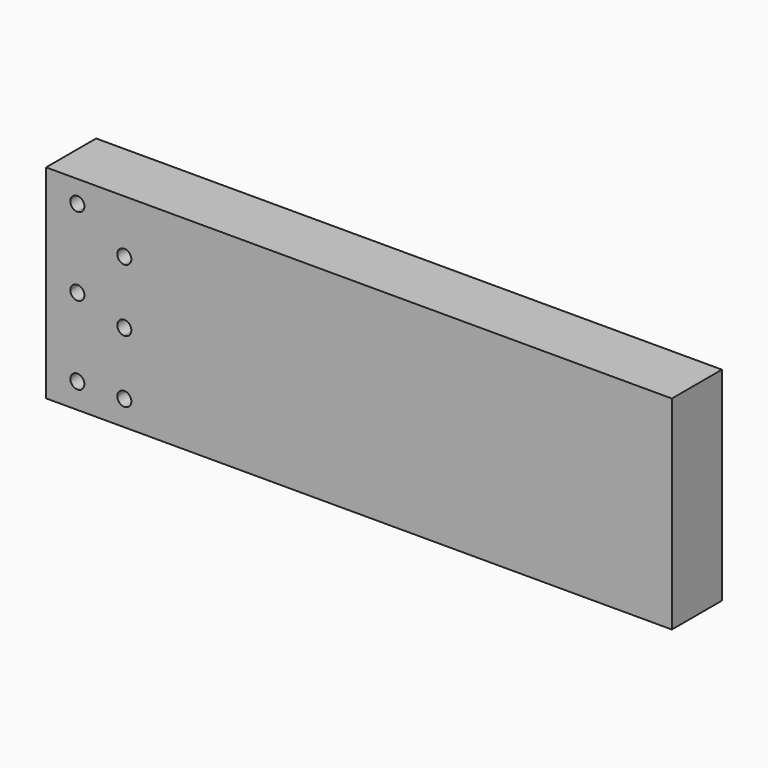
from build123d import *

# Parameters (mm, degrees)
F1_DEPTH = 20


with BuildPart() as f1:
    # F0 (on Front) → F1 (new body)
    with BuildSketch(Plane.XZ):
        Polygon((0, 8), (0, 0), (200, 0), (200, 65), (0, 65), (0, 33), align=None)
        with BuildLine():
            ThreePointArc((12.25, 8), (10, 5.75), (7.75, 8))
            ThreePointArc((7.75, 8), (10, 10.25), (12.25, 8))
        make_face(mode=Mode.SUBTRACT)
        with BuildLine():
            ThreePointArc((27.25, 8), (25, 5.75), (22.75, 8))
            ThreePointArc((22.75, 8), (23.40901, 9.59099), (25, 10.25))
            ThreePointArc((25, 10.25), (26.59099, 9.59099), (27.25, 8))
        make_face(mode=Mode.SUBTRACT)
        with BuildLine():
            ThreePointArc((27.25, 28), (26.59099, 26.40901), (25, 25.75))
            ThreePointArc((25, 25.75), (22.75, 28), (25, 30.25))
            ThreePointArc((25, 30.25), (26.59099, 29.59099), (27.25, 28))
        make_face(mode=Mode.SUBTRACT)
        with BuildLine():
            ThreePointArc((12.25, 33), (10, 30.75), (7.75, 33))
            ThreePointArc((7.75, 33), (8.40901, 34.59099), (10, 35.25))
            ThreePointArc((10, 35.25), (11.59099, 34.59099), (12.25, 33))
        make_face(mode=Mode.SUBTRACT)
        with BuildLine():
            ThreePointArc((27.25, 48), (26.59099, 46.40901), (25, 45.75))
            ThreePointArc((25, 45.75), (23.40901, 49.59099), (27.25, 48))
        make_face(mode=Mode.SUBTRACT)
        with BuildLine():
            ThreePointArc((12.25, 58), (11.59099, 56.40901), (10, 55.75))
            ThreePointArc((10, 55.75), (8.40901, 59.59099), (12.25, 58))
        make_face(mode=Mode.SUBTRACT)
    extrude(amount=F1_DEPTH)


solid = f1.part
